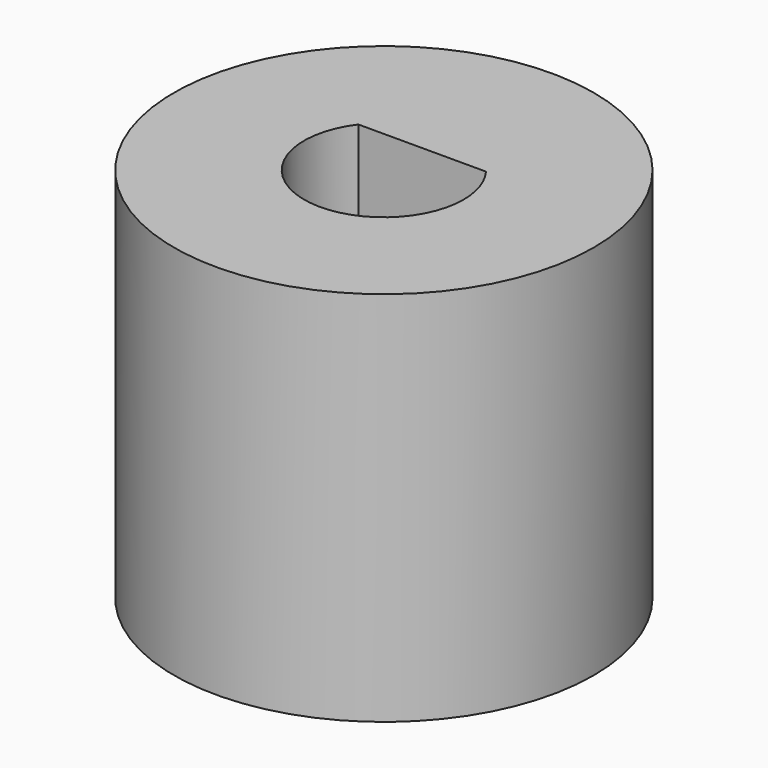
from build123d import *

# Parameters (mm, degrees)
F0_R     = 13.15
F2_DEPTH = 23.6
F4_DEPTH = 25.4


with BuildPart() as f2:
    # F0 (on Top) → F2 (new body)
    with BuildSketch(Plane.XY):
        Circle(F0_R)
    extrude(amount=-F2_DEPTH)

    # F3 (on face) → F4 (cut)
    with BuildSketch(Plane.XY):
        with BuildLine():
            Line((0, 3), (-4, 3))
            ThreePointArc((-4, 3), (-1.581139, -4.743416), (5, 0))
            ThreePointArc((5, 0), (4.743416, 1.581139), (4, 3))
            Line((4, 3), (0, 3))
        make_face()
    extrude(amount=-F4_DEPTH, mode=Mode.SUBTRACT)


solid = f2.part
